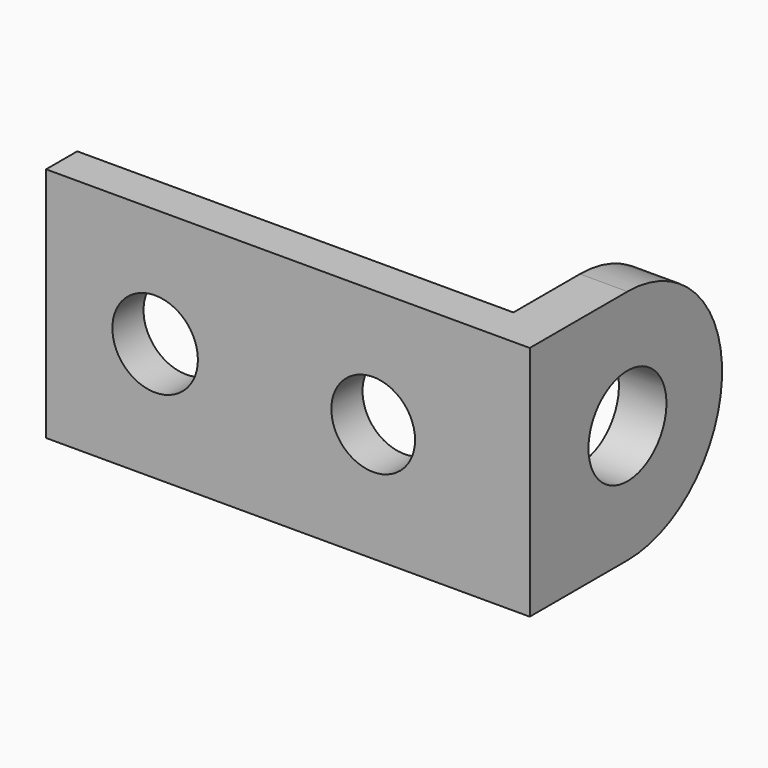
from build123d import *

# Parameters (mm, degrees)
F0_W     = 55.978216
F0_H     = 30.363508
F0_R     = 5.489689
F0_R_2   = 5.372442
F1_DEPTH = 5
F3_DEPTH = 6.1
F4_R     = 6.25311
F5_DEPTH = 25


with BuildPart() as f1:
    # F0 (on Front) → F1 (new body)
    with BuildSketch(Plane.XZ):
        with Locations((27.989108, 15.181754)):
            Rectangle(F0_W, F0_H)
        with Locations((13.994554, 15.181754)):
            Circle(F0_R, mode=Mode.SUBTRACT)
        with Locations((41.983662, 15.181754)):
            Circle(F0_R_2, mode=Mode.SUBTRACT)
    extrude(amount=F1_DEPTH)

    # F2 (on face) → F3 (join)
    with BuildSketch(Plane.YZ.offset(55.978216)):
        with BuildLine():
            Line((10.672215, 30.363508), (0, 30.363508))
            Line((0, 30.363508), (-5, 30.363508))
            Line((-5, 30.363508), (-5, 0))
            Line((-5, 0), (0, 0))
            Line((0, 0), (10.672215, 0))
            ThreePointArc((10.672215, 0), (25.853969, 15.181754), (10.672215, 30.363508))
        make_face()
    extrude(amount=F3_DEPTH)

    # F4 (on face) → F5 (cut)
    with BuildSketch(Plane(origin=(55.978216, 0, 0), x_dir=(0, -1, 0), z_dir=(-1, 0, 0))):
        with Locations((-10.672215, 15.181754)):
            Circle(F4_R)
    extrude(amount=-F5_DEPTH, mode=Mode.SUBTRACT)


solid = f1.part
